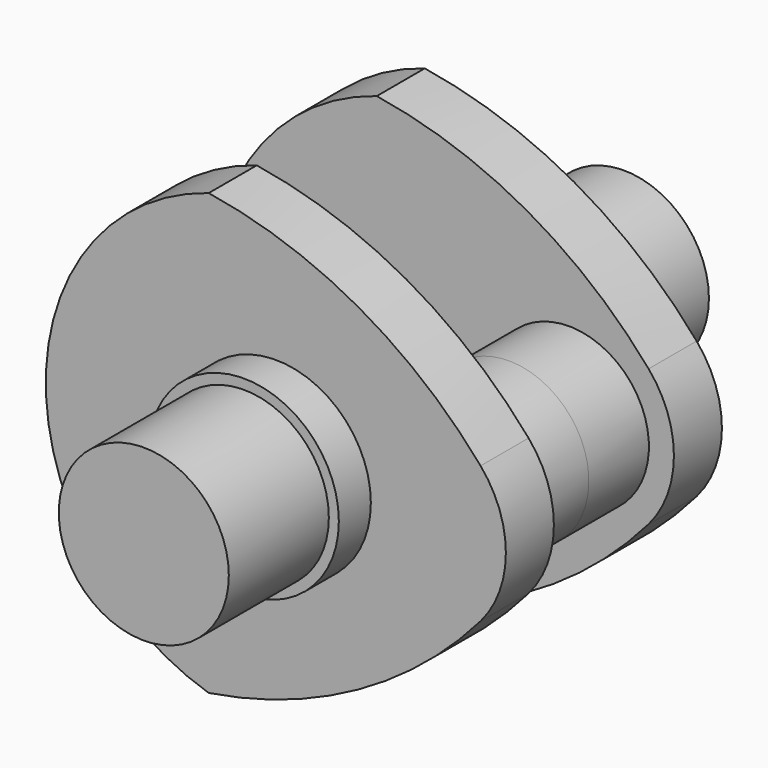
from build123d import *

# Parameters (mm, degrees)
F0_R     = 17
F1_DEPTH = 25
F2_R     = 19
F3_DEPTH = 8
F5_DEPTH = 12
F6_R     = 16
F7_DEPTH = 15


with BuildPart() as f1:
    # F0 (on Front) → F1 (new body)
    with BuildSketch(Plane.XZ):
        Circle(F0_R)
    extrude(amount=F1_DEPTH)

    # F2 (on Front) → F3 (join)
    with BuildSketch(Plane.XZ):
        Circle(F2_R)
    extrude(amount=-F3_DEPTH)

    # F4 (on face) → F5 (join)
    with BuildSketch(Plane(origin=(0, 8, 0), x_dir=(-1, 0, 0), z_dir=(0, 1, 0))):
        with BuildLine():
            ThreePointArc((-40.943123, -13.668095), (-16.469258, -33.683444), (13.416408, -44))
            ThreePointArc((13.416408, -44), (46, 0), (13.416408, 44))
            ThreePointArc((13.416408, 44), (-16.469258, 33.683444), (-40.943123, 13.668095))
            ThreePointArc((-40.943123, 13.668095), (-46, 0), (-40.943123, -13.668095))
        make_face()
    extrude(amount=F5_DEPTH)

    # F6 (on face) → F7 (join)
    with BuildSketch(Plane(origin=(0, 20, 0), x_dir=(-1, 0, 0), z_dir=(0, 1, 0))):
        with Locations((-25, 0)):
            Circle(F6_R)
    extrude(amount=F7_DEPTH)

    # F8: F1 across face


with BuildPart() as f1_1:
    add(f1.part)
    add(f1.part.mirror(Plane(origin=(25, 35, 0), x_dir=(-1, 0, 0), z_dir=(0, 1, 0))))


solid = f1_1.part
